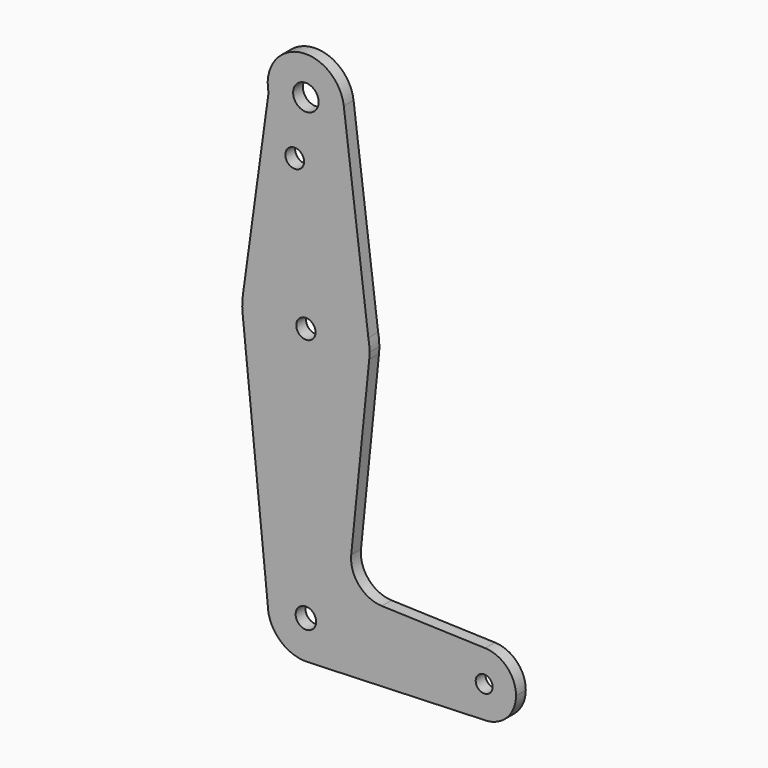
from build123d import *

# Parameters (mm, degrees)
F0_R     = 3.17908
F0_R_2   = 2.336989
F0_R_3   = 2.40633
F0_R_4   = 2.552252
F0_R_5   = 2.107652
F1_DEPTH = 3.048


with BuildPart() as f1:
    # F0 (on Front) → F1 (new body)
    with BuildSketch(Plane.XZ):
        with BuildLine():
            ThreePointArc((-9.312023, 112.297041), (1.007125, 104.828394), (9.525, 114.3))
            ThreePointArc((9.525, 114.3), (9.506545, 114.892649), (9.45125, 115.483002))
            ThreePointArc((9.45125, 115.483002), (-1.594501, 123.690591), (-9.312023, 112.297041))
        make_face()
        with Locations((0, 114.3)):
            Circle(F0_R, mode=Mode.SUBTRACT)
        with BuildLine():
            ThreePointArc((9.45125, 115.483002), (9.506545, 114.892649), (9.525, 114.3))
            ThreePointArc((9.525, 114.3), (1.007125, 104.828394), (-9.312023, 112.297041))
            Line((-9.312023, 112.297041), (-15.726901, 65.663376))
            ThreePointArc((-15.726901, 65.663376), (-0.471455, 79.367998), (15.570721, 66.593261))
            Line((15.570721, 66.593261), (9.45125, 115.483002))
        make_face()
        with Locations((-2.790537, 100.0252)):
            Circle(F0_R_2, mode=Mode.SUBTRACT)
        with BuildLine():
            ThreePointArc((15.875, 63.5), (15.798747, 65.054095), (15.570721, 66.593261))
            ThreePointArc((15.570721, 66.593261), (-0.471455, 79.367998), (-15.726901, 65.663376))
            ThreePointArc((-15.726901, 65.663376), (-15.872462, 63.78388), (-15.794203, 61.90038))
            ThreePointArc((-15.794203, 61.90038), (0, 47.625), (15.794203, 61.90038))
            ThreePointArc((15.794203, 61.90038), (15.854788, 62.699171), (15.875, 63.5))
        make_face()
        with Locations((0, 63.5)):
            Circle(F0_R_3, mode=Mode.SUBTRACT)
        with BuildLine():
            ThreePointArc((15.794203, 61.90038), (0, 47.625), (-15.794203, 61.90038))
            Line((-15.794203, 61.90038), (-9.525, 0))
            ThreePointArc((-9.525, 0), (0, 9.525), (9.525, 0))
            ThreePointArc((9.525, 0), (6.856124, -6.612049), (0.345117, -9.518746))
            Line((0.345117, -9.518746), (44.13271, -7.931156))
            ThreePointArc((44.13271, -7.931156), (36.517932, 0.293594), (44.719895, 7.93291))
            Line((44.719895, 7.93291), (18.942524, 8.809913))
            ThreePointArc((18.942524, 8.809913), (13.224986, 11.525682), (11.303114, 17.556605))
            Line((11.303114, 17.556605), (15.794203, 61.90038))
        make_face()
        with BuildLine():
            ThreePointArc((9.525, 0), (0, 9.525), (-9.525, 0))
            ThreePointArc((-9.525, 0), (-6.612049, -6.856124), (0.345117, -9.518746))
            ThreePointArc((0.345117, -9.518746), (6.856124, -6.612049), (9.525, 0))
        make_face()
        Circle(F0_R_4, mode=Mode.SUBTRACT)
        with BuildLine():
            ThreePointArc((44.719895, 7.93291), (36.517932, 0.293594), (44.13271, -7.931156))
            ThreePointArc((44.13271, -7.931156), (49.949337, -5.72374), (52.3875, 0))
            ThreePointArc((52.3875, 0), (50.157285, 5.516413), (44.719895, 7.93291))
        make_face()
        with Locations((44.45, 0)):
            Circle(F0_R_5, mode=Mode.SUBTRACT)
    extrude(amount=F1_DEPTH)


solid = f1.part
